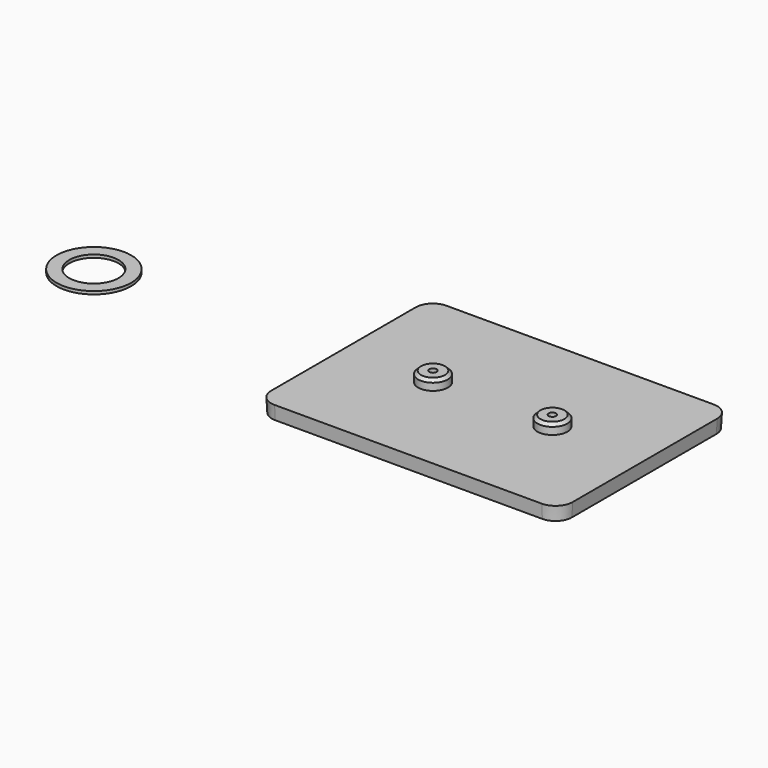
from build123d import *

# Parameters (mm, degrees)
F1_DEPTH = 4.6
F1_TAPER = -3
F2_R     = 5
F3_DEPTH = 3.4
F4_SIZE  = 1
F6_D     = 2.5
F6_DEPTH = 7
F6_TIP   = 0.7510757738
F7_R     = 12.5
F7_R_2   = 8.25
F8_DEPTH = 1


with BuildPart() as f1:
    # F0 (on Top) → F1 (new body)
    with BuildSketch(Plane.XY):
        with BuildLine():
            Line((-44.75, -35.75), (44.75, -35.75))
            ThreePointArc((44.75, -35.75), (48.6390872965, -34.1390872965), (50.25, -30.25))
            Line((50.25, -30.25), (50.25, 30.25))
            ThreePointArc((50.25, 30.25), (48.6390872965, 34.1390872965), (44.75, 35.75))
            Line((44.75, 35.75), (-44.75, 35.75))
            ThreePointArc((-44.75, 35.75), (-48.6390872965, 34.1390872965), (-50.25, 30.25))
            Line((-50.25, 30.25), (-50.25, -30.25))
            ThreePointArc((-50.25, -30.25), (-48.6390872965, -34.1390872965), (-44.75, -35.75))
        make_face()
    extrude(amount=F1_DEPTH, taper=F1_TAPER)

    # F2 (on face) → F3 (join)
    with BuildSketch(Plane.XY.offset(4.6)):
        with Locations((19.5089242153, 0)):
            Circle(F2_R)
        with Locations((-20.4910757847, 0)):
            Circle(F2_R)
    extrude(amount=F3_DEPTH)

    # F4
    f4_edges = [f1.edges().sort_by_distance(p)[0] for p in [
        (-25.491076, 0, 8),
        (14.508924, 0, 8),
    ]]
    chamfer(f4_edges, length=F4_SIZE)

    # F6
    with Locations(Plane.XY.offset(8)):
        with Locations((-20.4910757847, 0), (19.5089242153, 0)):
            Hole(F6_D / 2, depth=F6_DEPTH)
            with Locations((0, 0, -(F6_DEPTH + F6_TIP / 2))):  # 118° drill point
                Cone(0, F6_D / 2, F6_TIP, mode=Mode.SUBTRACT)


with BuildPart() as f8:
    # F7 (on Top) → F8 (new body)
    with BuildSketch(Plane.XY):
        with Locations((-134.0883696164, 0)):
            Circle(F7_R)
        with Locations((-134.0883696164, 0)):
            Circle(F7_R_2, mode=Mode.SUBTRACT)
    extrude(amount=F8_DEPTH)


solid = Compound([f1.part, f8.part])
